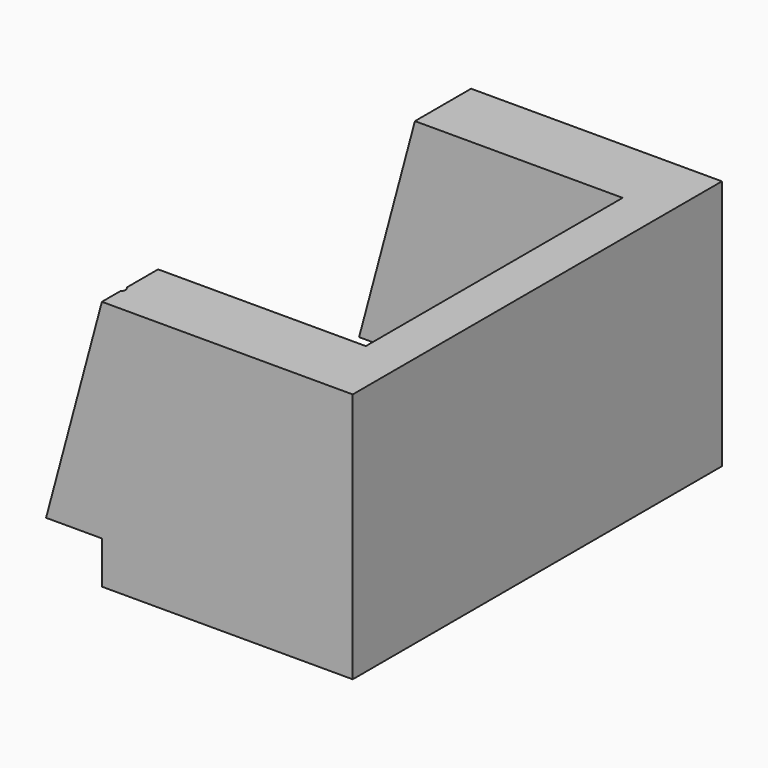
from build123d import *

# Parameters (mm, degrees)
F1_DEPTH = 46
F3_W     = 46
F3_H     = 25
F5_DEPTH = 25
F4_W     = 32
F4_H     = 45
F6_DEPTH = 20
F2_R     = 1.65
F7_DEPTH = 20


with BuildPart() as f1:
    # F0 (on Front) → F1 (new body)
    with BuildSketch(Plane.XZ):
        Polygon((-5.564609, 0), (0, 0), (0, 20.767405), align=None)
    extrude(amount=F1_DEPTH)

    # F3 (on face) → F5 (join)
    with BuildSketch(Plane.YZ):
        with Locations((-23, 8.267405)):
            Rectangle(F3_W, F3_H)
    extrude(amount=F5_DEPTH)

    # F4 (on face) → F6 (cut)
    with BuildSketch(Plane(origin=(-5.191851, 0, 1.391152), x_dir=(0, -1, 0), z_dir=(-0.965926, 0, 0.258819))):
        with Locations((23, 10.834288)):
            Rectangle(F4_W, F4_H)
    extrude(amount=-F6_DEPTH, mode=Mode.SUBTRACT)

    # F2 (on face) → F7 (cut)
    with BuildSketch(Plane(origin=(-5.191851, 0, 1.391152), x_dir=(0, -1, 0), z_dir=(-0.965926, 0, 0.258819))):
        with Locations((2.5, 2.059773)):
            Circle(F2_R)
        with Locations((43.3, 18.459773)):
            Circle(F2_R)
    extrude(amount=-F7_DEPTH, mode=Mode.SUBTRACT)


solid = f1.part
